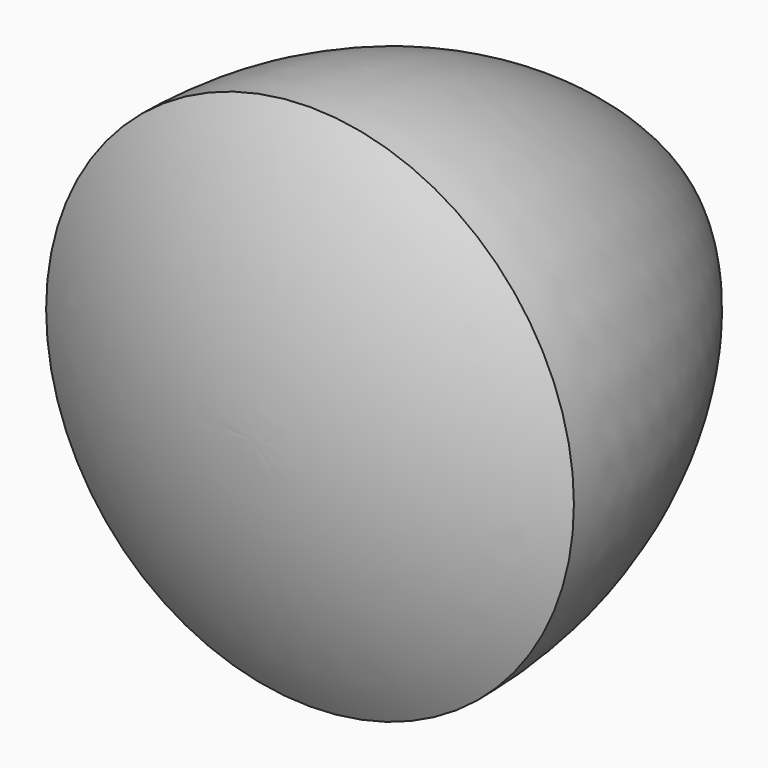
from build123d import *


with BuildPart() as f1:
    # F0 (on Top) → F1 (revolve)
    with BuildSketch(Plane.XY):
        with BuildLine():
            Line((0, -16.905989), (0, 23.094011))
            ThreePointArc((0, 23.094011), (-14.641016, 8.452995), (-20, -11.547005))
            ThreePointArc((-20, -11.547005), (-10.352762, -15.543022), (0, -16.905989))
        make_face()
    revolve(axis=Axis((0, 3.094011, 0), (0, -1, 0)))


solid = f1.part
